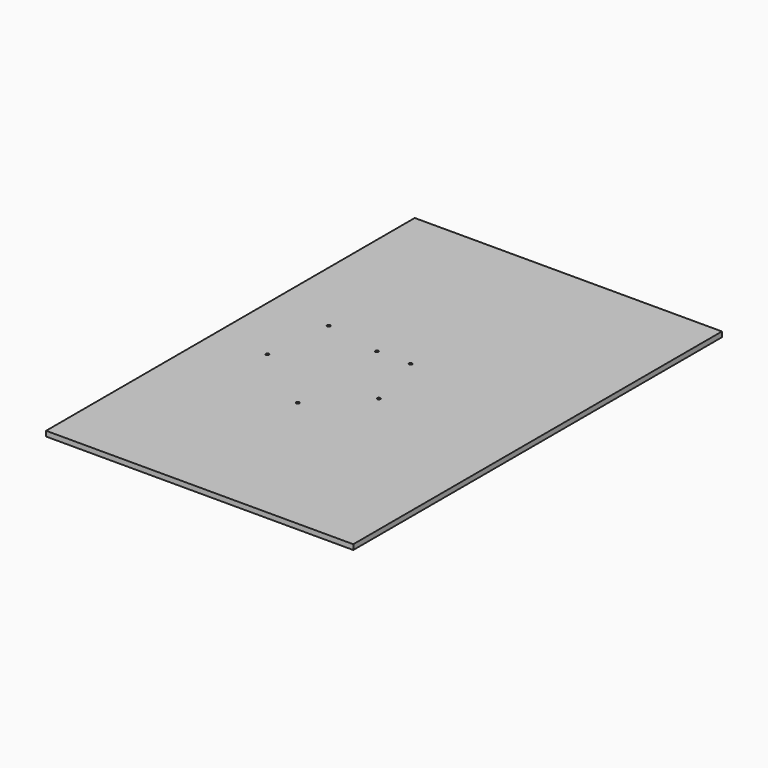
from build123d import *

# Parameters (mm, degrees)
F0_W     = 300
F0_H     = 450
F1_DEPTH = 5
F2_R     = 1.5
F3_DEPTH = 25


with BuildPart() as f1:
    # F0 (on Top) → F1 (new body)
    with BuildSketch(Plane.XY):
        Rectangle(F0_W, F0_H)
    extrude(amount=F1_DEPTH)

    # F2 (on face) → F3 (cut)
    with BuildSketch(Plane.XY.offset(5)):
        with Locations((-90, 45)):
            Circle(F2_R)
        with Locations((-97, -21)):
            Circle(F2_R)
        with Locations((-35, 35)):
            Circle(F2_R)
        with Locations((-2, 35)):
            Circle(F2_R)
        with Locations((-29, -69)):
            Circle(F2_R)
        with Locations((15, -25)):
            Circle(F2_R)
    extrude(amount=-F3_DEPTH, mode=Mode.SUBTRACT)


solid = f1.part
